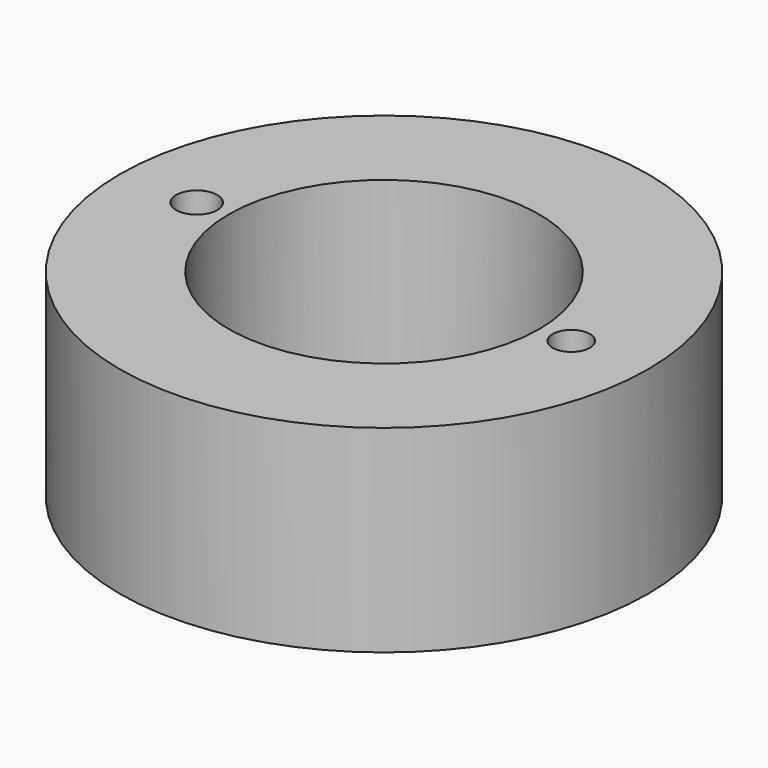
from build123d import *

# Parameters (mm, degrees)
F0_R     = 33.934763
F0_R_2   = 2.638278
F0_R_3   = 19.952821
F0_R_4   = 2.39552
F1_DEPTH = 25.4


with BuildPart() as f1:
    # F0 (on Top) → F1 (new body)
    with BuildSketch(Plane.XY):
        Circle(F0_R)
        with Locations((-24.063587, 0)):
            Circle(F0_R_2, mode=Mode.SUBTRACT)
        Circle(F0_R_3, mode=Mode.SUBTRACT)
        with Locations((24.06361, 0)):
            Circle(F0_R_4, mode=Mode.SUBTRACT)
    extrude(amount=F1_DEPTH)


solid = f1.part
